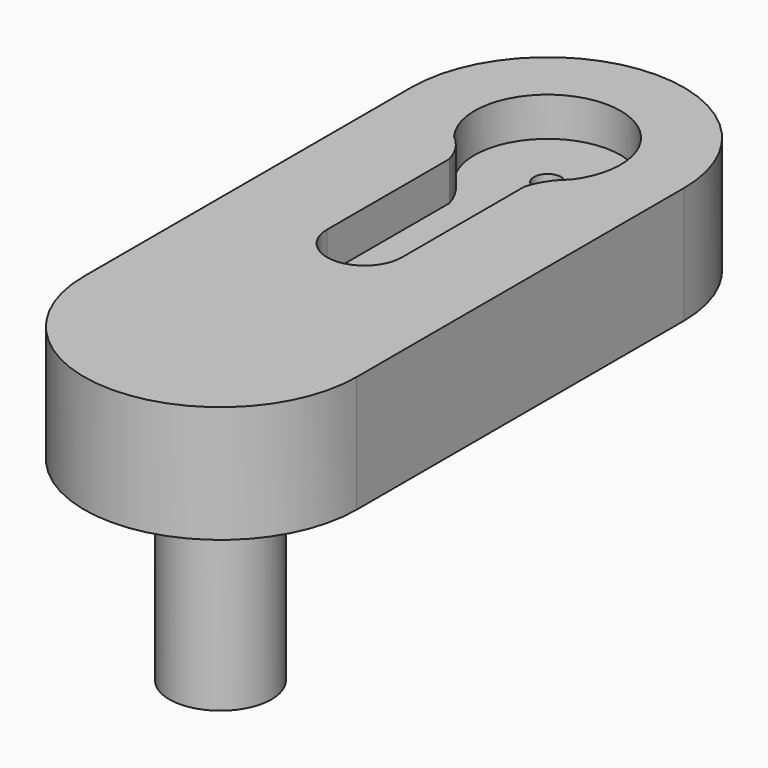
from build123d import *

# Parameters (mm, degrees)
PAD_DEPTH       = 12
POCKET_DEPTH    = 4
SKETCH002_R     = 5.25
PAD001_DEPTH    = 20
SKETCH003_R     = 1.4
POCKET001_DEPTH = 28.001


with BuildPart() as part:
    # Sketch001 → Pad (new body)
    with BuildSketch(Plane.XY):
        with BuildLine():
            ThreePointArc((14, 0), (0, 14), (-14, 0))
            Line((-14, 0), (-14, -42))
            ThreePointArc((-14, -42), (0, -56), (14, -42))
            Line((14, -42), (14, 0))
        make_face()
    extrude(amount=PAD_DEPTH)

    # Sketch (on Face6 of Pad) → Pocket (cut)
    with BuildSketch(Plane.XY.offset(12)):
        with BuildLine():
            ThreePointArc((6, -4.5), (0, 7.5), (-6, -4.5))
            ThreePointArc((-3.84916, -7.806116), (-4.666992, -5.985481), (-6, -4.5))
            Line((-3.84916, -7.806116), (-3.84916, -23.506116))
            ThreePointArc((-3.84916, -23.506116), (0.003896, -27.350001), (3.85084, -23.5))
            Line((3.85084, -7.8), (3.85084, -23.5))
            ThreePointArc((6, -4.5), (4.668722, -5.982823), (3.85084, -7.8))
        make_face()
    extrude(amount=-POCKET_DEPTH, mode=Mode.SUBTRACT)

    # Sketch002 (on Face4 of Pocket) → Pad001 (join)
    with BuildSketch(Plane(origin=(0, 0, 0), x_dir=(1, 0, 0), z_dir=(0, 0, -1))):
        with Locations((0, 42)):
            Circle(SKETCH002_R)
    extrude(amount=PAD001_DEPTH)

    # Sketch003 (on Face15 of Pad001) → Pocket001 (cut, through all)
    with BuildSketch(Plane.XY.offset(8)):
        Circle(SKETCH003_R)
        with Locations((0.000838, -23.5)):
            Circle(SKETCH003_R)
    extrude(amount=-POCKET001_DEPTH, mode=Mode.SUBTRACT)


solid = part.part
